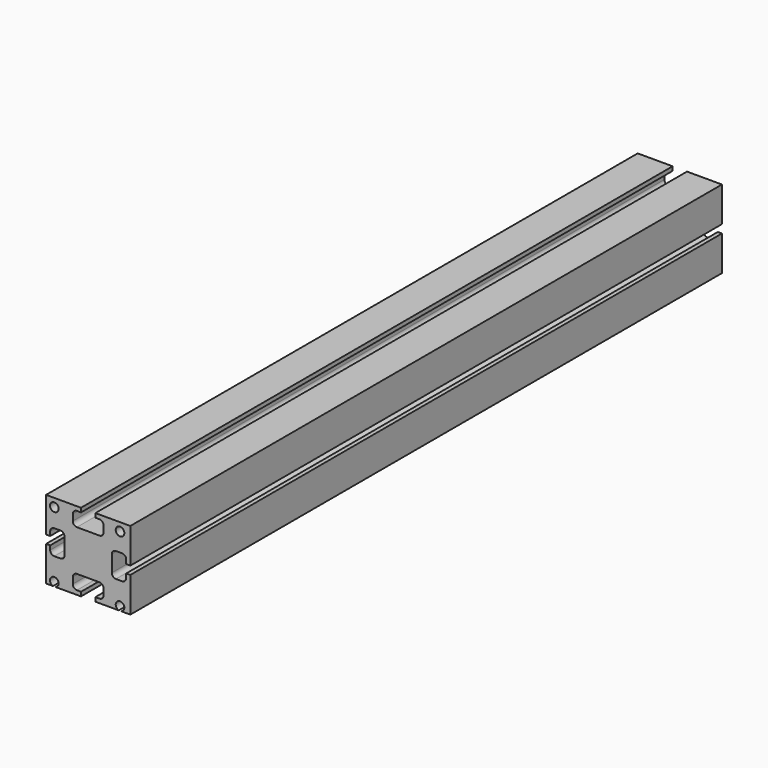
from build123d import *

# Parameters (mm, degrees)
F1_DEPTH = 360
F3_D     = 4.2
F4_R     = 2
F5_R     = 2
F6_R     = 2
F7_R     = 2
F8_R     = 2
F9_R     = 2


with BuildPart() as f1:
    # F0 (on Front) → F1 (new body)
    with BuildSketch(Plane.XZ):
        Polygon((0, -10), (0, 0), (0, 10), (-7.5, 10), (-7.5, 17), (-3.5, 17), (-3.5, 19), (-20.5, 19), (-20.5, 2), (-18.5, 2), (-18.5, 6), (-11.5, 6), (-11.5, 0), (-11.5, -6), (-18.5, -6), (-18.5, -2), (-20.5, -2), (-20.5, -19), (-3.5, -19), (-3.5, -17), (-7.5, -17), (-7.5, -10), align=None)
        Polygon((0, 10), (0, 0), (0, -10), (7.5, -10), (7.5, -17), (3.5, -17), (3.5, -19), (20.5, -19), (20.5, -2), (18.5, -2), (18.5, -6), (11.5, -6), (11.5, 0), (11.5, 6), (18.5, 6), (18.5, 2), (20.5, 2), (20.5, 19), (3.5, 19), (3.5, 17), (7.5, 17), (7.5, 10), align=None)
    extrude(amount=F1_DEPTH)

    # F3 (through all)
    with Locations(Plane.XZ.offset(360)):
        with Locations((15.5, 15), (-16.5, 15), (15.5, -17), (-16.5, -17)):
            Hole(F3_D / 2)

    # F4
    f4_edges = [f1.edges().sort_by_distance(p)[0] for p in [
        (-7.5, -180, 10),
        (-18.5, -180, -6),
        (-7.5, -180, -17),
        (11.5, -180, -6),
    ]]
    fillet(f4_edges, radius=F4_R)

    # F5
    f5_edges = [f1.edges().sort_by_distance(p)[0] for p in [
        (7.5, -180, 10),
    ]]
    fillet(f5_edges, radius=F5_R)

    # F6
    f6_edges = [f1.edges().sort_by_distance(p)[0] for p in [
        (-11.5, -180, -6),
        (7.5, -180, -10),
        (18.5, -180, 6),
    ]]
    fillet(f6_edges, radius=F6_R)

    # F7
    f7_edges = [f1.edges().sort_by_distance(p)[0] for p in [
        (7.5, -180, -17),
        (18.5, -180, -6),
    ]]
    fillet(f7_edges, radius=F7_R)

    # F8
    f8_edges = [f1.edges().sort_by_distance(p)[0] for p in [
        (-7.5, -180, -10),
        (-18.5, -180, 6),
        (-7.5, -180, 17),
        (11.5, -180, 6),
    ]]
    fillet(f8_edges, radius=F8_R)

    # F9
    f9_edges = [f1.edges().sort_by_distance(p)[0] for p in [
        (-11.5, -180, 6),
        (7.5, -180, 17),
    ]]
    fillet(f9_edges, radius=F9_R)


solid = f1.part
